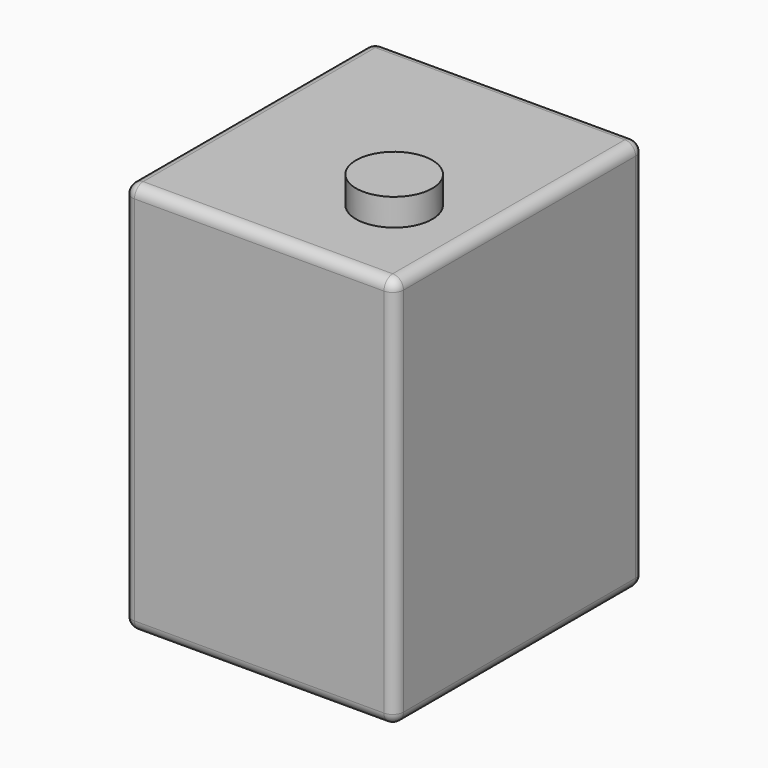
from build123d import *

# Parameters (mm, degrees)
F0_W     = 254
F0_H     = 368.3
F1_DEPTH = 292.1
F2_R     = 35.73197
F3_DEPTH = 25.4
F4_R     = 10.16


with BuildPart() as f1:
    # F0 (on Front) → F1 (new body)
    with BuildSketch(Plane.XZ):
        with Locations((0.303643, -28.702023)):
            Rectangle(F0_W, F0_H)
    extrude(amount=F1_DEPTH)

    # F2 (on face) → F3 (join)
    with BuildSketch(Plane.XY.offset(155.447977)):
        with Locations((50.064862, -196.309745)):
            Circle(F2_R)
    extrude(amount=F3_DEPTH)

    # F4
    f4_edges = [f1.edges().sort_by_distance(p)[0] for p in [
        (-126.696357, -292.1, -28.702023),
        (0.303643, -292.1, 155.447977),
        (-126.696357, -146.05, 155.447977),
        (0.303643, 0, 155.447977),
        (127.303643, -146.05, 155.447977),
        (-126.696357, 0, -28.702023),
        (-126.696357, -146.05, -212.852023),
        (0.303643, 0, -212.852023),
        (127.303643, 0, -28.702023),
        (127.303643, -292.1, -28.702023),
        (0.303643, -292.1, -212.852023),
        (127.303643, -146.05, -212.852023),
    ]]
    fillet(f4_edges, radius=F4_R)


solid = f1.part
